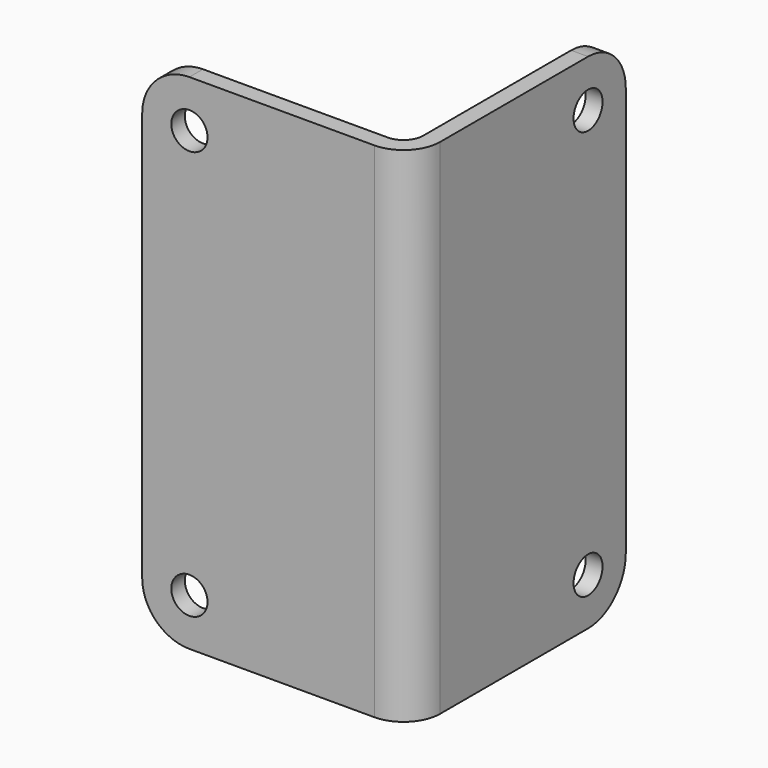
from build123d import *

# Parameters (mm, degrees)
F1_DEPTH = 50.8
F2_R     = 1.98374
F3_R     = 3.69316
F4_R     = 1.8288
F5_DEPTH = 1.70942
F6_R     = 1.8288
F7_DEPTH = 1.70942
F8_R     = 4.7625


with BuildPart() as f1:
    # F0 (on Top) → F1 (new body)
    with BuildSketch(Plane.XY):
        Polygon((1.70942, 25.4), (0, 25.4), (0, 0), (-25.4, 0), (-25.4, -1.70942), (1.70942, -1.70942), align=None)
    extrude(amount=F1_DEPTH)

    # F2
    f2_edges = [f1.edges().sort_by_distance(p)[0] for p in [
        (0, 0, 25.4),
    ]]
    fillet(f2_edges, radius=F2_R)

    # F3
    f3_edges = [f1.edges().sort_by_distance(p)[0] for p in [
        (1.70942, -1.70942, 25.4),
    ]]
    fillet(f3_edges, radius=F3_R)

    # F4 (on face) → F5 (cut, through all)
    with BuildSketch(Plane(origin=(0, 0, 0), x_dir=(0, -1, 0), z_dir=(-1, 0, 0))):
        with Locations((-20.6375, 46.0375)):
            Circle(F4_R)
        with Locations((-20.6375, 4.7625)):
            Circle(F4_R)
    extrude(amount=-F5_DEPTH, mode=Mode.SUBTRACT)

    # F6 (on face) → F7 (cut, through all)
    with BuildSketch(Plane(origin=(0, 0, 0), x_dir=(-1, 0, 0), z_dir=(0, 1, 0))):
        with Locations((20.6375, 46.0375)):
            Circle(F6_R)
        with Locations((20.6375, 4.7625)):
            Circle(F6_R)
    extrude(amount=-F7_DEPTH, mode=Mode.SUBTRACT)

    # F8
    f8_edges = [f1.edges().sort_by_distance(p)[0] for p in [
        (0.85471, 25.4, 50.8),
        (-25.4, -0.85471, 50.8),
        (-25.4, -0.85471, 0),
        (0.85471, 25.4, 0),
    ]]
    fillet(f8_edges, radius=F8_R)


solid = f1.part
